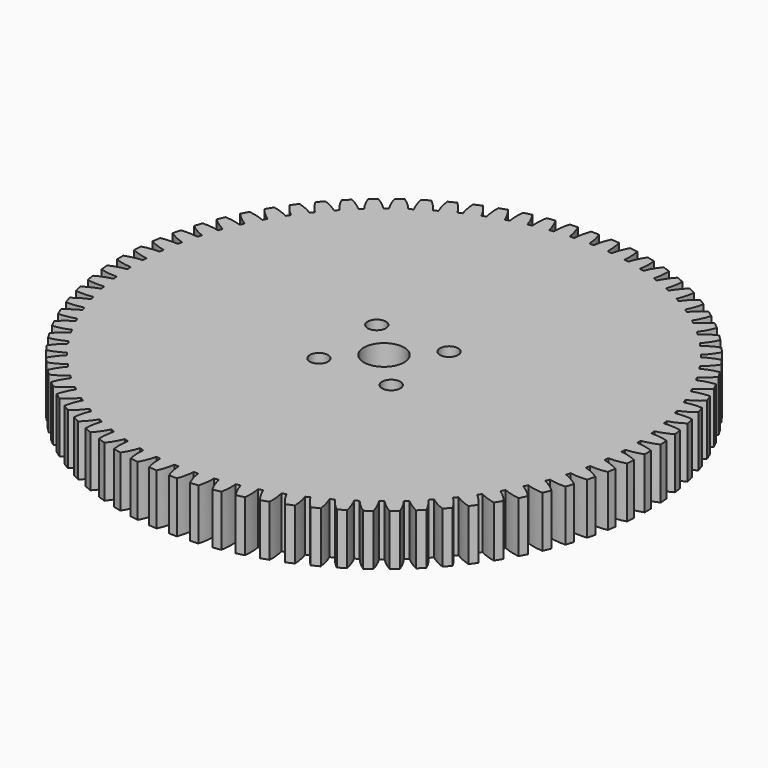
from build123d import *

# Parameters (mm, degrees)
F0_R     = 1.1303
F0_R_2   = 2.5
F1_DEPTH = 6.35


with BuildPart() as f1:
    # F0 (on Top) → F1 (new body)
    with BuildSketch(Plane.XY):
        with BuildLine():
            Line((0.5, 21.150821), (-0.5, 21.150821))
            ThreePointArc((-0.5, 21.150821), (-0.794678, 20.135079), (-0.936717, 19.087037))
            ThreePointArc((-0.936717, 19.087037), (-1.205924, 19.077642), (-1.475038, 19.065886))
            ThreePointArc((-1.475038, 19.065886), (-1.698868, 20.099553), (-2.072332, 21.089044))
            Line((-2.072332, 21.089044), (-3.069249, 21.010585))
            ThreePointArc((-3.069249, 21.010585), (-3.283325, 19.974854), (-3.342698, 18.918898))
            ThreePointArc((-3.342698, 18.918898), (-3.610338, 18.88841), (-3.8777, 18.855577))
            ThreePointArc((-3.8777, 18.855577), (-4.181941, 19.868496), (-4.631888, 20.825634))
            Line((-4.631888, 20.825634), (-5.619576, 20.6692))
            ThreePointArc((-5.619576, 20.6692), (-5.751729, 19.619866), (-5.728069, 18.562507))
            ThreePointArc((-5.728069, 18.562507), (-5.992492, 18.511114), (-6.256454, 18.457405))
            ThreePointArc((-6.256454, 18.457405), (-6.63923, 19.443331), (-7.162886, 20.362217))
            Line((-7.162886, 20.362217), (-8.135256, 20.128771))
            ThreePointArc((-8.135256, 20.128771), (-8.184671, 19.072303), (-8.078126, 18.02006))
            ThreePointArc((-8.078126, 18.02006), (-8.337701, 17.948079), (-8.596635, 17.873825))
            ThreePointArc((-8.596635, 17.873825), (-9.055586, 18.82668), (-9.649723, 19.701647))
            Line((-9.649723, 19.701647), (-10.600779, 19.39263))
            ThreePointArc((-10.600779, 19.39263), (-10.567153, 18.335542), (-10.378377, 17.294902))
            ThreePointArc((-10.378377, 17.294902), (-10.631505, 17.202777), (-10.883816, 17.108436))
            ThreePointArc((-10.883816, 17.108436), (-11.416111, 18.022344), (-12.077066, 18.848))
            Line((-12.077066, 18.848), (-13.000945, 18.465316))
            ThreePointArc((-13.000945, 18.465316), (-12.884484, 17.414124), (-12.614643, 16.391504))
            ThreePointArc((-12.614643, 16.391504), (-12.859763, 16.279803), (-13.103893, 16.165956))
            ThreePointArc((-13.103893, 16.165956), (-13.706252, 17.035284), (-14.429949, 17.806536))
            Line((-14.429949, 17.806536), (-15.320956, 17.352546))
            ThreePointArc((-15.320956, 17.352546), (-15.122379, 16.313732), (-14.773135, 15.315435))
            ThreePointArc((-14.773135, 15.315435), (-15.008735, 15.184846), (-15.243181, 15.052197))
            ThreePointArc((-15.243181, 15.052197), (-15.91189, 15.871584), (-16.693868, 16.583678))
            Line((-16.693868, 16.583678), (-17.546508, 16.061179))
            ThreePointArc((-17.546508, 16.061179), (-17.267038, 15.041148), (-16.840546, 14.07333))
            ThreePointArc((-16.840546, 14.07333), (-17.065174, 13.924659), (-17.28849, 13.774024))
            ThreePointArc((-17.28849, 13.774024), (-18.019425, 14.538419), (-18.854863, 15.186964))
            Line((-18.854863, 15.186964), (-19.66388, 14.599179))
            ThreePointArc((-19.66388, 14.599179), (-19.305241, 13.604219), (-18.80413, 12.672847))
            ThreePointArc((-18.80413, 12.672847), (-19.016401, 12.50701), (-19.227209, 12.339318))
            ThreePointArc((-19.227209, 12.339318), (-20.015865, 13.044009), (-20.899612, 13.625007))
            Line((-20.899612, 13.625007), (-21.660018, 12.975559))
            ThreePointArc((-21.660018, 12.975559), (-21.224421, 12.011805), (-20.65178, 11.12262))
            ThreePointArc((-20.65178, 11.12262), (-20.850384, 10.94064), (-21.047386, 10.756925))
            ThreePointArc((-21.047386, 10.756925), (-21.888901, 11.397566), (-22.815507, 11.907435))
            Line((-22.815507, 11.907435), (-23.522614, 11.200328))
            ThreePointArc((-23.522614, 11.200328), (-23.012745, 10.273722), (-22.372104, 9.432207))
            ThreePointArc((-22.372104, 9.432207), (-22.555819, 9.235206), (-22.737799, 9.036601))
            ThreePointArc((-22.737799, 9.036601), (-23.626983, 9.609242), (-24.590738, 10.044839))
            Line((-24.590738, 10.044839), (-25.240186, 9.284433))
            ThreePointArc((-25.240186, 9.284433), (-24.659187, 8.400686), (-23.954497, 7.61203))
            ThreePointArc((-23.954497, 7.61203), (-24.122189, 7.401222), (-24.288026, 7.188951))
            ThreePointArc((-24.288026, 7.188951), (-25.219398, 7.690062), (-26.214358, 8.048701))
            Line((-26.214358, 8.048701), (-26.802143, 7.239684))
            ThreePointArc((-26.802143, 7.239684), (-26.153598, 6.404246), (-25.389203, 5.673311))
            ThreePointArc((-25.389203, 5.673311), (-25.539838, 5.449995), (-25.688509, 5.225367))
            ThreePointArc((-25.688509, 5.225367), (-26.656327, 5.651859), (-27.676358, 5.931329))
            Line((-27.676358, 5.931329), (-28.198857, 5.078689))
            ThreePointArc((-28.198857, 5.078689), (-27.486763, 4.296711), (-26.667376, 3.628002))
            ThreePointArc((-26.667376, 3.628002), (-26.800025, 3.393556), (-26.930614, 3.157956))
            ThreePointArc((-26.930614, 3.157956), (-27.928911, 3.5072), (-28.967725, 3.705777))
            Line((-28.967725, 3.705777), (-29.421715, 2.81477))
            ThreePointArc((-29.421715, 2.81477), (-28.650463, 2.091073), (-27.781135, 1.488714))
            ThreePointArc((-27.781135, 1.488714), (-27.894982, 1.244584), (-28.006683, 0.999464))
            ThreePointArc((-28.006683, 0.999464), (-29.029303, 1.269305), (-30.080495, 1.385766))
            Line((-30.080495, 1.385766), (-30.463178, 0.461887))
            ThreePointArc((-30.463178, 0.461887), (-29.637523, -0.199068), (-28.723615, -0.731363))
            ThreePointArc((-28.723615, -0.731363), (-28.817956, -0.983674), (-28.910081, -1.236802))
            ThreePointArc((-28.910081, -1.236802), (-29.950721, -1.048026), (-31.007809, -1.0144))
            Line((-31.007809, -1.0144), (-31.316826, -1.965456))
            ThreePointArc((-31.316826, -1.965456), (-30.441859, -2.559593), (-29.489004, -3.018543))
            ThreePointArc((-29.489004, -3.018543), (-29.563258, -3.277478), (-29.635239, -3.537053))
            ThreePointArc((-29.635239, -3.537053), (-30.687482, -3.430508), (-31.74395, -3.479923))
            Line((-31.74395, -3.479923), (-31.977395, -4.452293))
            ThreePointArc((-31.977395, -4.452293), (-31.05851, -4.975949), (-30.072583, -5.358725))
            ThreePointArc((-30.072583, -5.358725), (-30.126293, -5.622687), (-30.177686, -5.88711))
            ThreePointArc((-30.177686, -5.88711), (-31.235044, -5.86345), (-32.284379, -5.995603))
            Line((-32.284379, -5.995603), (-32.440813, -6.983291))
            ThreePointArc((-32.440813, -6.983291), (-31.483675, -7.433238), (-30.470756, -7.737479))
            ThreePointArc((-30.470756, -7.737479), (-30.503589, -8.004841), (-30.534077, -8.272481))
            ThreePointArc((-30.534077, -8.272481), (-31.590033, -8.331854), (-32.625764, -8.54593))
            Line((-32.625764, -8.54593), (-32.704223, -9.542847))
            ThreePointArc((-32.704223, -9.542847), (-31.714732, -9.916311), (-30.681065, -10.14014))
            ThreePointArc((-30.681065, -10.14014), (-30.692821, -10.409255), (-30.702216, -10.678462))
            ThreePointArc((-30.702216, -10.678462), (-31.750258, -10.820501), (-32.766, -11.115179))
            Line((-32.766, -11.115179), (-32.766, -12.115179))
            ThreePointArc((-32.766, -12.115179), (-31.750258, -12.409857), (-30.702216, -12.551896))
            ThreePointArc((-30.702216, -12.551896), (-30.692821, -12.821103), (-30.681065, -13.090217))
            ThreePointArc((-30.681065, -13.090217), (-31.714732, -13.314047), (-32.704223, -13.687511))
            Line((-32.704223, -13.687511), (-32.625764, -14.684428))
            ThreePointArc((-32.625764, -14.684428), (-31.590033, -14.898504), (-30.534077, -14.957877))
            ThreePointArc((-30.534077, -14.957877), (-30.503589, -15.225517), (-30.470756, -15.492879))
            ThreePointArc((-30.470756, -15.492879), (-31.483675, -15.797119), (-32.440813, -16.247066))
            Line((-32.440813, -16.247066), (-32.284379, -17.234755))
            ThreePointArc((-32.284379, -17.234755), (-31.235044, -17.366908), (-30.177686, -17.343248))
            ThreePointArc((-30.177686, -17.343248), (-30.126293, -17.607671), (-30.072583, -17.871633))
            ThreePointArc((-30.072583, -17.871633), (-31.05851, -18.254409), (-31.977395, -18.778065))
            Line((-31.977395, -18.778065), (-31.74395, -19.750435))
            ThreePointArc((-31.74395, -19.750435), (-30.687482, -19.79985), (-29.635239, -19.693305))
            ThreePointArc((-29.635239, -19.693305), (-29.563258, -19.95288), (-29.489004, -20.211814))
            ThreePointArc((-29.489004, -20.211814), (-30.441859, -20.670765), (-31.316826, -21.264902))
            Line((-31.316826, -21.264902), (-31.007809, -22.215958))
            ThreePointArc((-31.007809, -22.215958), (-29.950721, -22.182332), (-28.910081, -21.993556))
            ThreePointArc((-28.910081, -21.993556), (-28.817956, -22.246684), (-28.723615, -22.498994))
            ThreePointArc((-28.723615, -22.498994), (-29.637523, -23.03129), (-30.463178, -23.692245))
            Line((-30.463178, -23.692245), (-30.080495, -24.616124))
            ThreePointArc((-30.080495, -24.616124), (-29.029303, -24.499663), (-28.006683, -24.229822))
            ThreePointArc((-28.006683, -24.229822), (-27.894982, -24.474942), (-27.781135, -24.719072))
            ThreePointArc((-27.781135, -24.719072), (-28.650463, -25.321431), (-29.421715, -26.045128))
            Line((-29.421715, -26.045128), (-28.967725, -26.936135))
            ThreePointArc((-28.967725, -26.936135), (-27.928911, -26.737558), (-26.930614, -26.388314))
            ThreePointArc((-26.930614, -26.388314), (-26.800025, -26.623914), (-26.667376, -26.85836))
            ThreePointArc((-26.667376, -26.85836), (-27.486763, -27.527069), (-28.198857, -28.309047))
            Line((-28.198857, -28.309047), (-27.676358, -29.161687))
            ThreePointArc((-27.676358, -29.161687), (-26.656327, -28.882217), (-25.688509, -28.455725))
            ThreePointArc((-25.688509, -28.455725), (-25.539838, -28.680353), (-25.389203, -28.903669))
            ThreePointArc((-25.389203, -28.903669), (-26.153598, -29.634604), (-26.802143, -30.470042))
            Line((-26.802143, -30.470042), (-26.214358, -31.279059))
            ThreePointArc((-26.214358, -31.279059), (-25.219398, -30.92042), (-24.288026, -30.419309))
            ThreePointArc((-24.288026, -30.419309), (-24.122189, -30.63158), (-23.954497, -30.842388))
            ThreePointArc((-23.954497, -30.842388), (-24.659187, -31.631044), (-25.240186, -32.514791))
            Line((-25.240186, -32.514791), (-24.590738, -33.275197))
            ThreePointArc((-24.590738, -33.275197), (-23.626983, -32.8396), (-22.737799, -32.266958))
            ThreePointArc((-22.737799, -32.266958), (-22.555819, -32.465563), (-22.372104, -32.662565))
            ThreePointArc((-22.372104, -32.662565), (-23.012745, -33.504079), (-23.522614, -34.430686))
            Line((-23.522614, -34.430686), (-22.815507, -35.137793))
            ThreePointArc((-22.815507, -35.137793), (-21.888901, -34.627924), (-21.047386, -33.987283))
            ThreePointArc((-21.047386, -33.987283), (-20.850384, -34.170998), (-20.65178, -34.352978))
            ThreePointArc((-20.65178, -34.352978), (-21.224421, -35.242162), (-21.660018, -36.205917))
            Line((-21.660018, -36.205917), (-20.899612, -36.855365))
            ThreePointArc((-20.899612, -36.855365), (-20.015865, -36.274366), (-19.227209, -35.569676))
            ThreePointArc((-19.227209, -35.569676), (-19.016401, -35.737368), (-18.80413, -35.903205))
            ThreePointArc((-18.80413, -35.903205), (-19.305241, -36.834577), (-19.66388, -37.829537))
            Line((-19.66388, -37.829537), (-18.854863, -38.417322))
            ThreePointArc((-18.854863, -38.417322), (-18.019425, -37.768777), (-17.28849, -37.004382))
            ThreePointArc((-17.28849, -37.004382), (-17.065174, -37.155017), (-16.840546, -37.303688))
            ThreePointArc((-16.840546, -37.303688), (-17.267038, -38.271506), (-17.546508, -39.291537))
            Line((-17.546508, -39.291537), (-16.693868, -39.814036))
            ThreePointArc((-16.693868, -39.814036), (-15.91189, -39.101942), (-15.243181, -38.282555))
            ThreePointArc((-15.243181, -38.282555), (-15.008735, -38.415204), (-14.773135, -38.545793))
            ThreePointArc((-14.773135, -38.545793), (-15.122379, -39.54409), (-15.320956, -40.582903))
            Line((-15.320956, -40.582903), (-14.429949, -41.036894))
            ThreePointArc((-14.429949, -41.036894), (-13.706252, -40.265642), (-13.103893, -39.396314))
            ThreePointArc((-13.103893, -39.396314), (-12.859763, -39.510161), (-12.614643, -39.621862))
            ThreePointArc((-12.614643, -39.621862), (-12.884484, -40.644482), (-13.000945, -41.695674))
            Line((-13.000945, -41.695674), (-12.077066, -42.078357))
            ThreePointArc((-12.077066, -42.078357), (-11.416111, -41.252702), (-10.883816, -40.338794))
            ThreePointArc((-10.883816, -40.338794), (-10.631505, -40.433135), (-10.378377, -40.52526))
            ThreePointArc((-10.378377, -40.52526), (-10.567153, -41.5659), (-10.600779, -42.622988))
            Line((-10.600779, -42.622988), (-9.649723, -42.932005))
            ThreePointArc((-9.649723, -42.932005), (-9.055586, -42.057038), (-8.596635, -41.104183))
            ThreePointArc((-8.596635, -41.104183), (-8.337701, -41.178437), (-8.078126, -41.250418))
            ThreePointArc((-8.078126, -41.250418), (-8.184671, -42.302661), (-8.135256, -43.359129))
            Line((-8.135256, -43.359129), (-7.162886, -43.592574))
            ThreePointArc((-7.162886, -43.592574), (-6.63923, -42.673689), (-6.256454, -41.687762))
            ThreePointArc((-6.256454, -41.687762), (-5.992492, -41.741472), (-5.728069, -41.792865))
            ThreePointArc((-5.728069, -41.792865), (-5.751729, -42.850223), (-5.619576, -43.899558))
            Line((-5.619576, -43.899558), (-4.631888, -44.055992))
            ThreePointArc((-4.631888, -44.055992), (-4.181941, -43.098853), (-3.8777, -42.085934))
            ThreePointArc((-3.8777, -42.085934), (-3.610338, -42.118768), (-3.342698, -42.149256))
            ThreePointArc((-3.342698, -42.149256), (-3.283325, -43.205212), (-3.069249, -44.240943))
            Line((-3.069249, -44.240943), (-2.072332, -44.319402))
            ThreePointArc((-2.072332, -44.319402), (-1.698868, -43.329911), (-1.475038, -42.296244))
            ThreePointArc((-1.475038, -42.296244), (-1.205924, -42.308), (-0.936717, -42.317395))
            ThreePointArc((-0.936717, -42.317395), (-0.794678, -43.365437), (-0.5, -44.381179))
            Line((-0.5, -44.381179), (0.5, -44.381179))
            ThreePointArc((0.5, -44.381179), (0.794678, -43.365437), (0.936717, -42.317395))
            ThreePointArc((0.936717, -42.317395), (1.205924, -42.308), (1.475038, -42.296244))
            ThreePointArc((1.475038, -42.296244), (1.698868, -43.329911), (2.072332, -44.319402))
            Line((2.072332, -44.319402), (3.069249, -44.240943))
            ThreePointArc((3.069249, -44.240943), (3.283325, -43.205212), (3.342698, -42.149256))
            ThreePointArc((3.342698, -42.149256), (3.610338, -42.118768), (3.8777, -42.085934))
            ThreePointArc((3.8777, -42.085934), (4.181941, -43.098853), (4.631888, -44.055992))
            Line((4.631888, -44.055992), (5.619576, -43.899558))
            ThreePointArc((5.619576, -43.899558), (5.751729, -42.850223), (5.728069, -41.792865))
            ThreePointArc((5.728069, -41.792865), (5.992492, -41.741472), (6.256454, -41.687762))
            ThreePointArc((6.256454, -41.687762), (6.63923, -42.673689), (7.162886, -43.592574))
            Line((7.162886, -43.592574), (8.135256, -43.359129))
            ThreePointArc((8.135256, -43.359129), (8.184671, -42.302661), (8.078126, -41.250418))
            ThreePointArc((8.078126, -41.250418), (8.337701, -41.178437), (8.596635, -41.104183))
            ThreePointArc((8.596635, -41.104183), (9.055586, -42.057038), (9.649723, -42.932005))
            Line((9.649723, -42.932005), (10.600779, -42.622988))
            ThreePointArc((10.600779, -42.622988), (10.567153, -41.5659), (10.378377, -40.52526))
            ThreePointArc((10.378377, -40.52526), (10.631505, -40.433135), (10.883816, -40.338794))
            ThreePointArc((10.883816, -40.338794), (11.416111, -41.252702), (12.077066, -42.078357))
            Line((12.077066, -42.078357), (13.000945, -41.695674))
            ThreePointArc((13.000945, -41.695674), (12.884484, -40.644482), (12.614643, -39.621862))
            ThreePointArc((12.614643, -39.621862), (12.859763, -39.510161), (13.103893, -39.396314))
            ThreePointArc((13.103893, -39.396314), (13.706252, -40.265642), (14.429949, -41.036894))
            Line((14.429949, -41.036894), (15.320956, -40.582903))
            ThreePointArc((15.320956, -40.582903), (15.122379, -39.54409), (14.773135, -38.545793))
            ThreePointArc((14.773135, -38.545793), (15.008735, -38.415204), (15.243181, -38.282555))
            ThreePointArc((15.243181, -38.282555), (15.91189, -39.101942), (16.693868, -39.814036))
            Line((16.693868, -39.814036), (17.546508, -39.291537))
            ThreePointArc((17.546508, -39.291537), (17.267038, -38.271506), (16.840546, -37.303688))
            ThreePointArc((16.840546, -37.303688), (17.065174, -37.155017), (17.28849, -37.004382))
            ThreePointArc((17.28849, -37.004382), (18.019425, -37.768777), (18.854863, -38.417322))
            Line((18.854863, -38.417322), (19.66388, -37.829537))
            ThreePointArc((19.66388, -37.829537), (19.305241, -36.834577), (18.80413, -35.903205))
            ThreePointArc((18.80413, -35.903205), (19.016401, -35.737368), (19.227209, -35.569676))
            ThreePointArc((19.227209, -35.569676), (20.015865, -36.274366), (20.899612, -36.855365))
            Line((20.899612, -36.855365), (21.660018, -36.205917))
            ThreePointArc((21.660018, -36.205917), (21.224421, -35.242162), (20.65178, -34.352978))
            ThreePointArc((20.65178, -34.352978), (20.850384, -34.170998), (21.047386, -33.987283))
            ThreePointArc((21.047386, -33.987283), (21.888901, -34.627924), (22.815507, -35.137793))
            Line((22.815507, -35.137793), (23.522614, -34.430686))
            ThreePointArc((23.522614, -34.430686), (23.012745, -33.504079), (22.372104, -32.662565))
            ThreePointArc((22.372104, -32.662565), (22.555819, -32.465563), (22.737799, -32.266958))
            ThreePointArc((22.737799, -32.266958), (23.626983, -32.8396), (24.590738, -33.275197))
            Line((24.590738, -33.275197), (25.240186, -32.514791))
            ThreePointArc((25.240186, -32.514791), (24.659187, -31.631044), (23.954497, -30.842388))
            ThreePointArc((23.954497, -30.842388), (24.122189, -30.63158), (24.288026, -30.419309))
            ThreePointArc((24.288026, -30.419309), (25.219398, -30.92042), (26.214358, -31.279059))
            Line((26.214358, -31.279059), (26.802143, -30.470042))
            ThreePointArc((26.802143, -30.470042), (26.153598, -29.634604), (25.389203, -28.903669))
            ThreePointArc((25.389203, -28.903669), (25.539838, -28.680353), (25.688509, -28.455725))
            ThreePointArc((25.688509, -28.455725), (26.656327, -28.882217), (27.676358, -29.161687))
            Line((27.676358, -29.161687), (28.198857, -28.309047))
            ThreePointArc((28.198857, -28.309047), (27.486763, -27.527069), (26.667376, -26.85836))
            ThreePointArc((26.667376, -26.85836), (26.800025, -26.623914), (26.930614, -26.388314))
            ThreePointArc((26.930614, -26.388314), (27.928911, -26.737558), (28.967725, -26.936135))
            Line((28.967725, -26.936135), (29.421715, -26.045128))
            ThreePointArc((29.421715, -26.045128), (28.650463, -25.321431), (27.781135, -24.719072))
            ThreePointArc((27.781135, -24.719072), (27.894982, -24.474942), (28.006683, -24.229822))
            ThreePointArc((28.006683, -24.229822), (29.029303, -24.499663), (30.080495, -24.616124))
            Line((30.080495, -24.616124), (30.463178, -23.692245))
            ThreePointArc((30.463178, -23.692245), (29.637523, -23.03129), (28.723615, -22.498994))
            ThreePointArc((28.723615, -22.498994), (28.817956, -22.246684), (28.910081, -21.993556))
            ThreePointArc((28.910081, -21.993556), (29.950721, -22.182332), (31.007809, -22.215958))
            Line((31.007809, -22.215958), (31.316826, -21.264902))
            ThreePointArc((31.316826, -21.264902), (30.441859, -20.670765), (29.489004, -20.211814))
            ThreePointArc((29.489004, -20.211814), (29.563258, -19.95288), (29.635239, -19.693305))
            ThreePointArc((29.635239, -19.693305), (30.687482, -19.79985), (31.74395, -19.750435))
            Line((31.74395, -19.750435), (31.977395, -18.778065))
            ThreePointArc((31.977395, -18.778065), (31.05851, -18.254409), (30.072583, -17.871633))
            ThreePointArc((30.072583, -17.871633), (30.126293, -17.607671), (30.177686, -17.343248))
            ThreePointArc((30.177686, -17.343248), (31.235044, -17.366908), (32.284379, -17.234755))
            Line((32.284379, -17.234755), (32.440813, -16.247066))
            ThreePointArc((32.440813, -16.247066), (31.483675, -15.797119), (30.470756, -15.492879))
            ThreePointArc((30.470756, -15.492879), (30.503589, -15.225517), (30.534077, -14.957877))
            ThreePointArc((30.534077, -14.957877), (31.590033, -14.898504), (32.625764, -14.684428))
            Line((32.625764, -14.684428), (32.704223, -13.687511))
            ThreePointArc((32.704223, -13.687511), (31.714732, -13.314047), (30.681065, -13.090217))
            ThreePointArc((30.681065, -13.090217), (30.692821, -12.821103), (30.702216, -12.551896))
            ThreePointArc((30.702216, -12.551896), (31.750258, -12.409857), (32.766, -12.115179))
            Line((32.766, -12.115179), (32.766, -11.115179))
            ThreePointArc((32.766, -11.115179), (31.750258, -10.820501), (30.702216, -10.678462))
            ThreePointArc((30.702216, -10.678462), (30.692821, -10.409255), (30.681065, -10.14014))
            ThreePointArc((30.681065, -10.14014), (31.714732, -9.916311), (32.704223, -9.542847))
            Line((32.704223, -9.542847), (32.625764, -8.54593))
            ThreePointArc((32.625764, -8.54593), (31.590033, -8.331854), (30.534077, -8.272481))
            ThreePointArc((30.534077, -8.272481), (30.503589, -8.004841), (30.470756, -7.737479))
            ThreePointArc((30.470756, -7.737479), (31.483675, -7.433238), (32.440813, -6.983291))
            Line((32.440813, -6.983291), (32.284379, -5.995603))
            ThreePointArc((32.284379, -5.995603), (31.235044, -5.86345), (30.177686, -5.88711))
            ThreePointArc((30.177686, -5.88711), (30.126293, -5.622687), (30.072583, -5.358725))
            ThreePointArc((30.072583, -5.358725), (31.05851, -4.975949), (31.977395, -4.452293))
            Line((31.977395, -4.452293), (31.74395, -3.479923))
            ThreePointArc((31.74395, -3.479923), (30.687482, -3.430508), (29.635239, -3.537053))
            ThreePointArc((29.635239, -3.537053), (29.563258, -3.277478), (29.489004, -3.018543))
            ThreePointArc((29.489004, -3.018543), (30.441859, -2.559593), (31.316826, -1.965456))
            Line((31.316826, -1.965456), (31.007809, -1.0144))
            ThreePointArc((31.007809, -1.0144), (29.950721, -1.048026), (28.910081, -1.236802))
            ThreePointArc((28.910081, -1.236802), (28.817956, -0.983674), (28.723615, -0.731363))
            ThreePointArc((28.723615, -0.731363), (29.637523, -0.199068), (30.463178, 0.461887))
            Line((30.463178, 0.461887), (30.080495, 1.385766))
            ThreePointArc((30.080495, 1.385766), (29.029303, 1.269305), (28.006683, 0.999464))
            ThreePointArc((28.006683, 0.999464), (27.894982, 1.244584), (27.781135, 1.488714))
            ThreePointArc((27.781135, 1.488714), (28.650463, 2.091073), (29.421715, 2.81477))
            Line((29.421715, 2.81477), (28.967725, 3.705777))
            ThreePointArc((28.967725, 3.705777), (27.928911, 3.5072), (26.930614, 3.157956))
            ThreePointArc((26.930614, 3.157956), (26.800025, 3.393556), (26.667376, 3.628002))
            ThreePointArc((26.667376, 3.628002), (27.486763, 4.296711), (28.198857, 5.078689))
            Line((28.198857, 5.078689), (27.676358, 5.931329))
            ThreePointArc((27.676358, 5.931329), (26.656327, 5.651859), (25.688509, 5.225367))
            ThreePointArc((25.688509, 5.225367), (25.539838, 5.449995), (25.389203, 5.673311))
            ThreePointArc((25.389203, 5.673311), (26.153598, 6.404246), (26.802143, 7.239684))
            Line((26.802143, 7.239684), (26.214358, 8.048701))
            ThreePointArc((26.214358, 8.048701), (25.219398, 7.690062), (24.288026, 7.188951))
            ThreePointArc((24.288026, 7.188951), (24.122189, 7.401222), (23.954497, 7.61203))
            ThreePointArc((23.954497, 7.61203), (24.659187, 8.400686), (25.240186, 9.284433))
            Line((25.240186, 9.284433), (24.590738, 10.044839))
            ThreePointArc((24.590738, 10.044839), (23.626983, 9.609242), (22.737799, 9.036601))
            ThreePointArc((22.737799, 9.036601), (22.555819, 9.235206), (22.372104, 9.432207))
            ThreePointArc((22.372104, 9.432207), (23.012745, 10.273722), (23.522614, 11.200328))
            Line((23.522614, 11.200328), (22.815507, 11.907435))
            ThreePointArc((22.815507, 11.907435), (21.888901, 11.397566), (21.047386, 10.756925))
            ThreePointArc((21.047386, 10.756925), (20.850384, 10.94064), (20.65178, 11.12262))
            ThreePointArc((20.65178, 11.12262), (21.224421, 12.011805), (21.660018, 12.975559))
            Line((21.660018, 12.975559), (20.899612, 13.625007))
            ThreePointArc((20.899612, 13.625007), (20.015865, 13.044009), (19.227209, 12.339318))
            ThreePointArc((19.227209, 12.339318), (19.016401, 12.50701), (18.80413, 12.672847))
            ThreePointArc((18.80413, 12.672847), (19.305241, 13.604219), (19.66388, 14.599179))
            Line((19.66388, 14.599179), (18.854863, 15.186964))
            ThreePointArc((18.854863, 15.186964), (18.019425, 14.538419), (17.28849, 13.774024))
            ThreePointArc((17.28849, 13.774024), (17.065174, 13.924659), (16.840546, 14.07333))
            ThreePointArc((16.840546, 14.07333), (17.267038, 15.041148), (17.546508, 16.061179))
            Line((17.546508, 16.061179), (16.693868, 16.583678))
            ThreePointArc((16.693868, 16.583678), (15.91189, 15.871584), (15.243181, 15.052197))
            ThreePointArc((15.243181, 15.052197), (15.008735, 15.184846), (14.773135, 15.315435))
            ThreePointArc((14.773135, 15.315435), (15.122379, 16.313732), (15.320956, 17.352546))
            Line((15.320956, 17.352546), (14.429949, 17.806536))
            ThreePointArc((14.429949, 17.806536), (13.706252, 17.035284), (13.103893, 16.165956))
            ThreePointArc((13.103893, 16.165956), (12.859763, 16.279803), (12.614643, 16.391504))
            ThreePointArc((12.614643, 16.391504), (12.884484, 17.414124), (13.000945, 18.465316))
            Line((13.000945, 18.465316), (12.077066, 18.848))
            ThreePointArc((12.077066, 18.848), (11.416111, 18.022344), (10.883816, 17.108436))
            ThreePointArc((10.883816, 17.108436), (10.631505, 17.202777), (10.378377, 17.294902))
            ThreePointArc((10.378377, 17.294902), (10.567153, 18.335542), (10.600779, 19.39263))
            Line((10.600779, 19.39263), (9.649723, 19.701647))
            ThreePointArc((9.649723, 19.701647), (9.055586, 18.82668), (8.596635, 17.873825))
            ThreePointArc((8.596635, 17.873825), (8.337701, 17.948079), (8.078126, 18.02006))
            ThreePointArc((8.078126, 18.02006), (8.184671, 19.072303), (8.135256, 20.128771))
            Line((8.135256, 20.128771), (7.162886, 20.362217))
            ThreePointArc((7.162886, 20.362217), (6.63923, 19.443331), (6.256454, 18.457405))
            ThreePointArc((6.256454, 18.457405), (5.992492, 18.511114), (5.728069, 18.562507))
            ThreePointArc((5.728069, 18.562507), (5.751729, 19.619866), (5.619576, 20.6692))
            Line((5.619576, 20.6692), (4.631888, 20.825634))
            ThreePointArc((4.631888, 20.825634), (4.181941, 19.868496), (3.8777, 18.855577))
            ThreePointArc((3.8777, 18.855577), (3.610338, 18.88841), (3.342698, 18.918898))
            ThreePointArc((3.342698, 18.918898), (3.283325, 19.974854), (3.069249, 21.010585))
            Line((3.069249, 21.010585), (2.072332, 21.089044))
            ThreePointArc((2.072332, 21.089044), (1.698868, 20.099553), (1.475038, 19.065886))
            ThreePointArc((1.475038, 19.065886), (1.205924, 19.077642), (0.936717, 19.087037))
            ThreePointArc((0.936717, 19.087037), (0.794678, 20.135079), (0.5, 21.150821))
        make_face()
        with Locations((-4.490128, -16.105307)):
            Circle(F0_R, mode=Mode.SUBTRACT)
        with Locations((4.490128, -16.105307)):
            Circle(F0_R, mode=Mode.SUBTRACT)
        with Locations((-4.490128, -7.125051)):
            Circle(F0_R, mode=Mode.SUBTRACT)
        with Locations((0, -11.615179)):
            Circle(F0_R_2, mode=Mode.SUBTRACT)
        with Locations((4.490128, -7.125051)):
            Circle(F0_R, mode=Mode.SUBTRACT)
    extrude(amount=F1_DEPTH)


solid = f1.part
